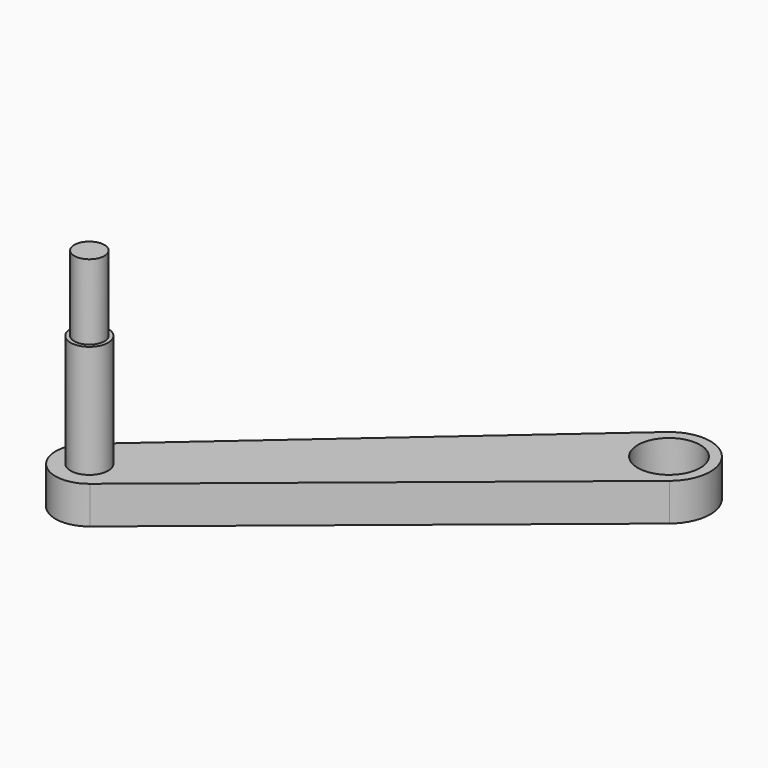
from build123d import *

# Parameters (mm, degrees)
F0_W      = 140
F0_H      = 120
F1_DEPTH  = 25
F2_R      = 4.15
F3_DEPTH  = 25.001
F4_R      = 2.5
F5_DEPTH  = 25
F7_DEPTH  = 50.001
F9_DEPTH  = 20
F10_R     = 2.5
F10_R_2   = 2
F11_DEPTH = 10


with BuildPart() as f1:
    # F0 (on Top) → F1 (new body)
    with BuildSketch(Plane.XY):
        Rectangle(F0_W, F0_H)
    extrude(amount=F1_DEPTH)

    # F2 (on face) → F3 (cut, through all)
    with BuildSketch(Plane.XY.offset(25)):
        with Locations((46.530288, 42.764347)):
            Circle(F2_R)
    extrude(amount=-F3_DEPTH, mode=Mode.SUBTRACT)

    # F4 (on face) → F5 (join)
    with BuildSketch(Plane.XY.offset(25)):
        with Locations((0.539839, 3.842103)):
            Circle(F4_R)
    extrude(amount=F5_DEPTH)

    # F6 (on face) → F7 (intersect, through all)
    with BuildSketch(Plane(origin=(0, 0, 0), x_dir=(1, 0, 0), z_dir=(0, 0, -1))):
        with BuildLine():
            Line((-2.423829, -7.228351), (42.908028, -46.903095))
            ThreePointArc((42.908028, -46.903095), (50.728586, -46.317415), (50.013185, -38.507655))
            Line((50.013185, -38.507655), (3.389482, -0.359355))
            ThreePointArc((3.389482, -0.359355), (-2.895133, -0.935047), (-2.423829, -7.228351))
        make_face()
    extrude(amount=-F7_DEPTH, mode=Mode.INTERSECT)

    # F8 (on face) → F9 (cut)
    with BuildSketch(Plane(origin=(0, 0, 0), x_dir=(1, 0, 0), z_dir=(0, 0, -1))):
        with BuildLine():
            ThreePointArc((42.908028, -46.903095), (50.728586, -46.317415), (50.013185, -38.507655))
            Line((50.013185, -38.507655), (3.389482, -0.359355))
            ThreePointArc((3.389482, -0.359355), (-2.895133, -0.935047), (-2.423829, -7.228351))
            Line((-2.423829, -7.228351), (42.908028, -46.903095))
        make_face()
    extrude(amount=-F9_DEPTH, mode=Mode.SUBTRACT)

    # F10 (on face) → F11 (cut)
    with BuildSketch(Plane.XY.offset(50)):
        with Locations((0.539839, 3.842103)):
            Circle(F10_R)
        with Locations((0.539839, 3.842103)):
            Circle(F10_R_2, mode=Mode.SUBTRACT)
    extrude(amount=-F11_DEPTH, mode=Mode.SUBTRACT)


solid = f1.part
